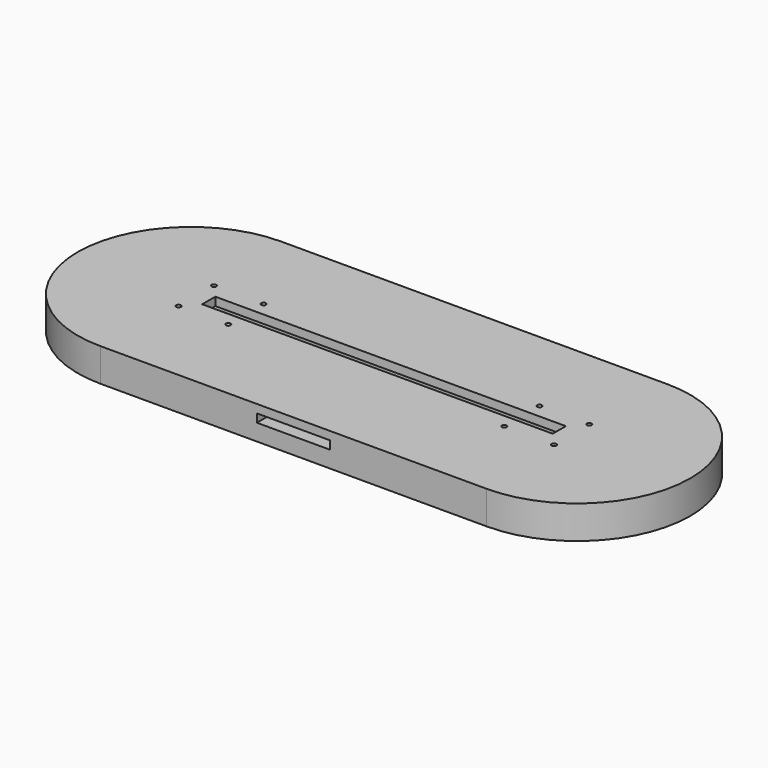
from build123d import *

# Parameters (mm, degrees)
PAD_DEPTH       = 9
POCKET_DEPTH    = 6
SKETCH002_W     = 26.5
SKETCH002_H     = 35
POCKET001_DEPTH = 6
SKETCH003_W     = 127
SKETCH003_H     = 5.95
PAD001_DEPTH    = 3
SKETCH004_R     = 0.85
POCKET002_DEPTH = 485.929265
SKETCH005_W     = 26.5
SKETCH005_H     = 7.75
PAD002_DEPTH    = 3


with BuildPart() as part:
    # Sketch → Pad (new body)
    with BuildSketch(Plane.XY):
        with BuildLine():
            ThreePointArc((-70, 41), (-111, 0), (-70, -41))
            Line((-70, -41), (70, -41))
            ThreePointArc((70, -41), (111, 0), (70, 41))
            Line((-70, 41), (70, 41))
        make_face()
    extrude(amount=PAD_DEPTH)

    # Sketch001 (on Face6 of Pad) → Pocket (cut)
    with BuildSketch(Plane.XY.offset(9)):
        with BuildLine():
            ThreePointArc((-62.5, 6), (-68.5, 0), (-62.5, -6))
            Line((-62.5, -6), (62.5, -6))
            ThreePointArc((62.5, -6), (68.5, 0), (62.5, 6))
            Line((-62.5, 6), (62.5, 6))
        make_face()
    extrude(amount=-POCKET_DEPTH, mode=Mode.SUBTRACT)

    # Sketch002 (on Face5 of Pocket) → Pocket001 (cut)
    with BuildSketch(Plane.XY.offset(9)):
        with Locations((0, -23.5)):
            Rectangle(SKETCH002_W, SKETCH002_H)
    extrude(amount=-POCKET001_DEPTH, mode=Mode.SUBTRACT)

    # Sketch003 (on Face5 of Pocket001) → Pad001 (join)
    with BuildSketch(Plane.XY.offset(9)):
        with BuildLine():
            ThreePointArc((-70, 41), (-111, 0), (-70, -41))
            Line((-70, -41), (70, -41))
            ThreePointArc((70, -41), (111, 0), (70, 41))
            Line((-70, 41), (70, 41))
        make_face()
        Rectangle(SKETCH003_W, SKETCH003_H, mode=Mode.SUBTRACT)
    extrude(amount=PAD001_DEPTH)

    # Sketch004 (on Face12 of Pad001) → Pocket002 (cut, through all)
    with BuildSketch(Plane.XY.offset(12)):
        with Locations((-68, -8)):
            Circle(SKETCH004_R)
        with Locations((-50, -8)):
            Circle(SKETCH004_R)
        with Locations((-50, 8)):
            Circle(SKETCH004_R)
        with Locations((-68, 8)):
            Circle(SKETCH004_R)
    pocket002 = extrude(amount=-POCKET002_DEPTH, mode=Mode.SUBTRACT)

    # Sketch005 (on Face10 of Pocket002) → Pad002 (join)
    with BuildSketch(Plane.XY.offset(3)):
        with Locations((0, -37.125)):
            Rectangle(SKETCH005_W, SKETCH005_H)
    extrude(amount=PAD002_DEPTH)

    # Mirrored: Pocket002 across Sketch004 V_Axis
    add(pocket002.mirror(Plane(origin=(0, 0, 12), x_dir=(0, 0, 1), z_dir=(1, 0, 0))), mode=Mode.SUBTRACT)


solid = part.part
